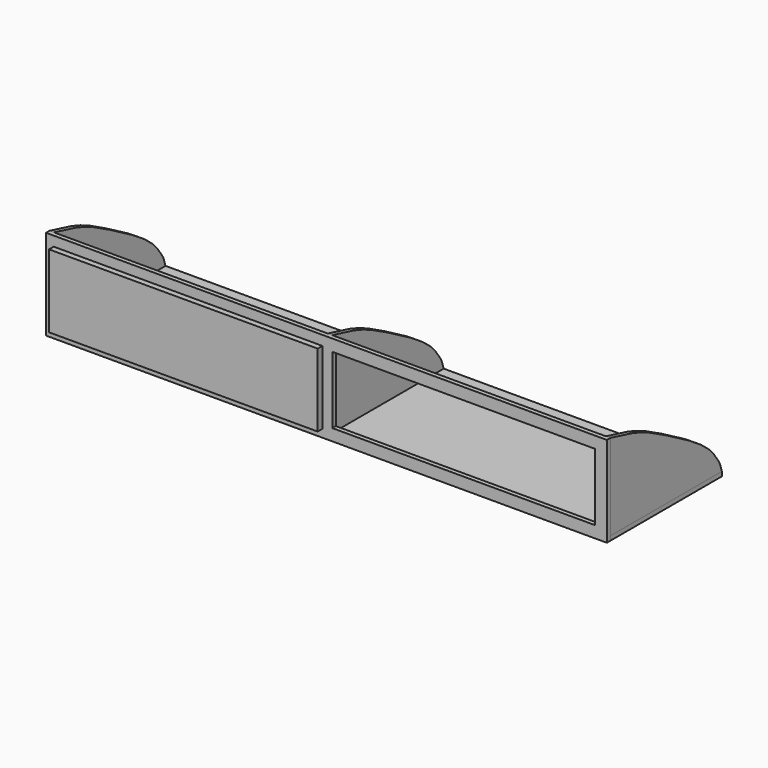
from build123d import *

# Parameters (mm, degrees)
F0_W      = 50.8
F0_H      = 292.1
F1_DEPTH  = 19.05
F2_W      = 2438.4
F2_H      = 19.05
F3_DEPTH  = 606.425
F6_DEPTH  = 19.05
F10_W     = 1168.4
F10_H     = 317.5
F11_DEPTH = 25.4


with BuildPart() as f1:
    # F0 (on Front) → F1 (new body)
    with BuildSketch(Plane.XZ):
        Polygon((-1150.9496096095, 393.7), (-1150.9496096095, 342.9), (-1100.1496096095, 342.9), (42.8503903905, 342.9), (93.6503903905, 342.9), (1236.6503903905, 342.9), (1287.4503903905, 342.9), (1287.4503903905, 393.7), align=None)
        with Locations((-1125.5496096095, 196.85)):
            Rectangle(F0_W, F0_H)
        Polygon((-1150.9496096095, 50.8), (-1150.9496096095, 0), (1287.4503903905, 0), (1287.4503903905, 50.8), (1236.6503903905, 50.8), (93.6503903905, 50.8), (42.8503903905, 50.8), (-1100.1496096095, 50.8), align=None)
        with Locations((68.2503903905, 196.85)):
            Rectangle(F0_W, F0_H)
        with Locations((1262.0503903905, 196.85)):
            Rectangle(F0_W, F0_H)
    extrude(amount=F1_DEPTH)


with BuildPart() as f3:
    # F2 (on face) → F3 (new body)
    with BuildSketch(Plane(origin=(0, 0, 0), x_dir=(-1, 0, 0), z_dir=(0, 1, 0))):
        with Locations((-68.2503903905, 9.525)):
            Rectangle(F2_W, F2_H)
    extrude(amount=F3_DEPTH)


with BuildPart() as f6:
    # F5 (on offset) → F6 (new body)
    with BuildSketch(Plane.YZ.offset(1287.4503903905)):
        with BuildLine():
            Line((0, 393.7), (0, 19.05))
            Line((0, 19.05), (606.425, 19.05))
            add(Edge.make_bspline(
                [(0, 393.7), (87.395966053, 373.2579350471), (172.3445434037, 351.6413218765), (320.7555437967, 271.047856194), (445.9122669673, 200.541778996), (513.8103172288, 152.6764764003), (558.282648647, 112.0216770795), (597.1847295701, 52.4433300305), (595.1462754521, 52.4322879698), (606.425, 19.05)],
                knots=[0, 0, 0, 0, 0.1974024291, 0.3786400821, 0.5524176821, 0.6816262865, 0.7956803, 0.9038486446, 1, 1, 1, 1], degree=3))
        make_face()
    extrude(amount=-F6_DEPTH)


with BuildPart() as f7_1:
    # F7: copy of F6
    add(f6.part.moved(Location((-2419.35, 0, 0))))


with BuildPart() as f8_1:
    # F8: copy of F6
    add(f6.part.moved(Location((-1209.675, 0, 0))))


with BuildPart() as f11:
    # F10 (on offset) → F11 (new body)
    with BuildSketch(Plane.XZ.offset(25.4)):
        with Locations((-528.6496096095, 196.85)):
            Rectangle(F10_W, F10_H)
    extrude(amount=F11_DEPTH)


solid = Compound([f1.part, f3.part, f6.part, f7_1.part, f8_1.part, f11.part])
